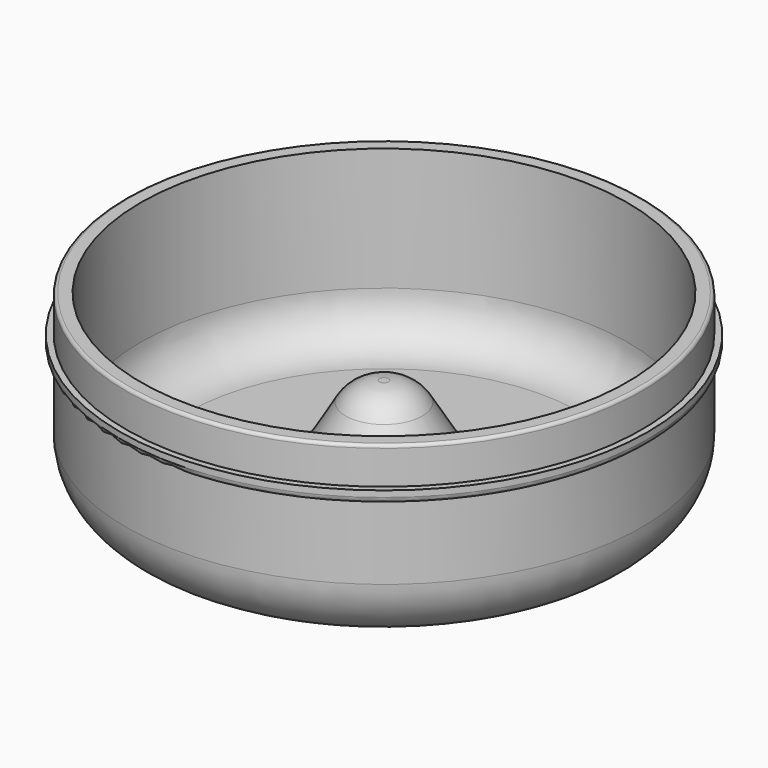
from build123d import *

# Parameters (mm, degrees)
F2_R = 0.5


with BuildPart() as f1:
    # F0 (on Front) → F1 (revolve)
    with BuildSketch(Plane.XZ):
        with BuildLine():
            Line((-0.735238, 15), (0, 15))
            Line((0, 15), (0, 17.4))
            Line((0, 17.4), (-0.735238, 17.4))
            ThreePointArc((-0.735238, 17.4), (-3.888511, 16.569279), (-6.223193, 14.292773))
            Line((-6.223193, 14.292773), (-11.144958, 6.089832))
            ThreePointArc((-11.144958, 6.089832), (-13.917393, 3.386481), (-17.661904, 2.4))
            Line((-17.661904, 2.4), (-32, 2.4))
            ThreePointArc((-32, 2.4), (-37.374012, 4.625988), (-39.6, 10))
            Line((-39.6, 10), (-39.6, 30))
            Line((-39.6, 30), (-42, 30))
            Line((-42, 30), (-42, 24))
            Line((-42, 24), (-42, 22))
            Line((-42, 22), (-42, 10))
            ThreePointArc((-42, 10), (-39.071068, 2.928932), (-32, 0))
            Line((-32, 0), (-17.661904, 0))
            ThreePointArc((-17.661904, 0), (-12.734916, 1.298001), (-9.086975, 4.855042))
            Line((-9.086975, 4.855042), (-4.16521, 13.057983))
            ThreePointArc((-4.16521, 13.057983), (-2.706034, 14.4808), (-0.735238, 15))
        make_face()
        with BuildLine():
            ThreePointArc((-43, 23), (-42.707107, 22.292893), (-42, 22))
            Line((-42, 22), (-42, 24))
            Line((-42, 24), (-43, 24))
            Line((-43, 24), (-43, 23))
        make_face()
    revolve(axis=Axis((0, 0, 16.2), (0, 0, 1)))

    # F2
    f2_edges = [f1.edges().sort_by_distance(p)[0] for p in [
        (42, 0, 30),
    ]]
    fillet(f2_edges, radius=F2_R)


solid = f1.part
